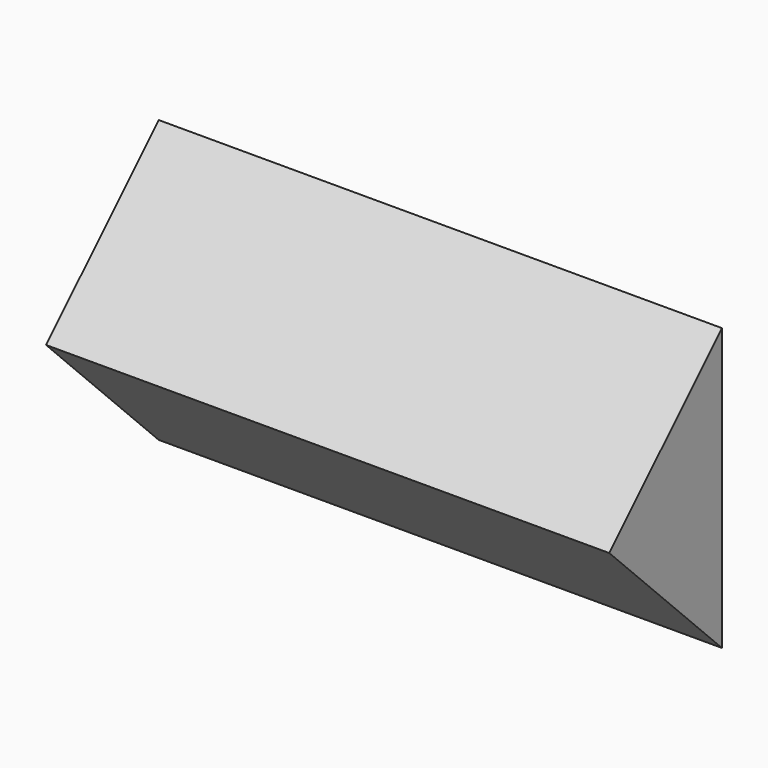
from build123d import *

# Parameters (mm, degrees)
F0_W     = 101.6
F0_H     = 50.8
F1_DEPTH = 25.4
F4_DEPTH = 101.6
F5_DEPTH = 101.6


with BuildPart() as f1:
    # F0 (on Front) → F1 (new body)
    with BuildSketch(Plane.XZ):
        Rectangle(F0_W, F0_H)
    extrude(amount=F1_DEPTH)

    # F2 (on face) → F4 (cut)
    with BuildSketch(Plane.YZ.offset(50.8)):
        Polygon((-25.4, 25.4), (-25.4, 0), (0, 25.4), align=None)
    extrude(amount=-F4_DEPTH, mode=Mode.SUBTRACT)

    # F3 (on face) → F5 (cut)
    with BuildSketch(Plane(origin=(-50.8, 0, 0), x_dir=(0, -1, 0), z_dir=(-1, 0, 0))):
        Polygon((25.4, -25.4), (25.4, 0), (0, -25.4), align=None)
    extrude(amount=-F5_DEPTH, mode=Mode.SUBTRACT)


solid = f1.part
